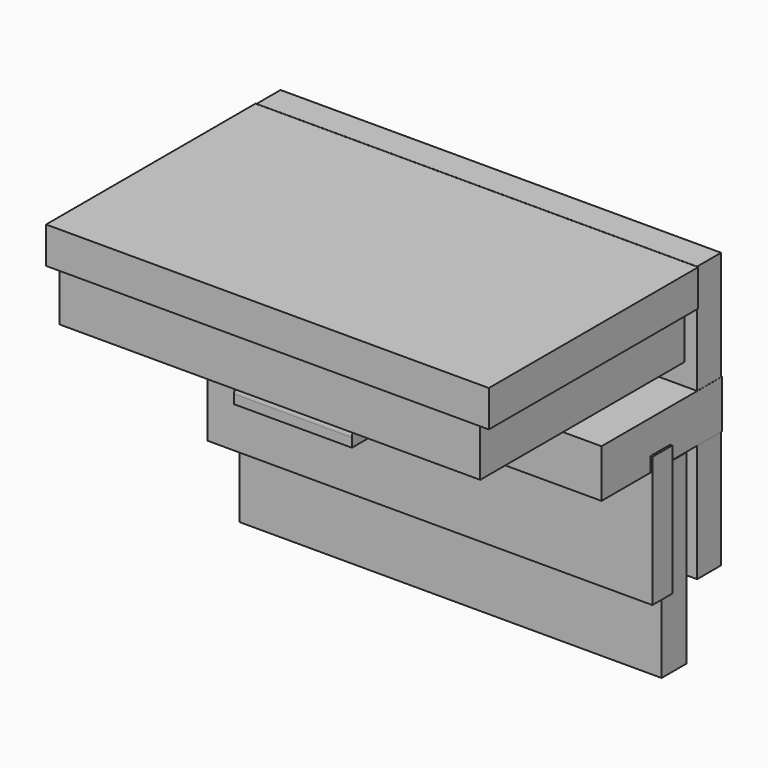
from build123d import *

# Parameters (mm, degrees)
F0_W      = 119.6627616882
F0_H      = 74.7766420245
F1_DEPTH  = 8.128
F3_W      = 119.7266131639
F3_H      = 13.0689910729
F4_DEPTH  = 40.894
F5_W      = 6.7429840565
F5_H      = 35.425810609
F6_DEPTH  = 60.452
F8_START  = 27.432
F7_W      = 120.2666014433
F7_H      = 71.1032301188
F8_DEPTH  = 9.906
F10_START = 0.508
F9_W      = 114.7100962698
F9_H      = 50.5220373161
F10_DEPTH = 8.382
F12_START = 0.508
F11_W     = 114.3076792359
F11_H     = 13.2031459361
F12_DEPTH = 69.342
F14_DEPTH = 16.002


with BuildPart() as f1:
    # F0 (on Front) → F1 (new body)
    with BuildSketch(Plane.XZ):
        Rectangle(F0_W, F0_H)
    extrude(amount=-F1_DEPTH)

    # F3 (on offset) → F4 (join)
    with BuildSketch(Plane.XZ.offset(-8.382)):
        with Locations((0, 1.1006427521)):
            Rectangle(F3_W, F3_H)
    extrude(amount=F4_DEPTH)

    # F5 (on Right) → F6 (join, symmetric)
    with BuildSketch(Plane.YZ):
        with Locations((-12.5801898539, -19.1722072195)):
            Rectangle(F5_W, F5_H)
    extrude(amount=F6_DEPTH, both=True)

    # F7 (on Top) → F8 (join)
    with BuildSketch(Plane.XY.offset(F8_START)):
        with Locations((0, -35.5516150594)):
            Rectangle(F7_W, F7_H)
        with Locations((0, -35.5516150594)):
            Rectangle(F7_W, F7_H)
    extrude(amount=F8_DEPTH)

    # F13 (on Right) → F14 (join, symmetric)
    with BuildSketch(Plane.YZ):
        Polygon((-62.4162591994, 5.1726119709), (-32.512, 5.1726119709), (-32.512, 7.6351382885), (-56.5703772008, 7.6351382885), (-62.4162591994, 7.6351382885), align=None)
        with BuildLine():
            Line((-62.4162591994, 7.6351382885), (-56.5703772008, 7.6351382885))
            ThreePointArc((-56.5703772008, 7.6351382885), (-59.4933182001, 10.5580792878), (-62.4162591994, 7.6351382885))
        make_face()
    extrude(amount=F14_DEPTH, both=True)


with BuildPart() as f10:
    # F9 (on Front) → F10 (new body)
    with BuildSketch(Plane.XZ.offset(F10_START)):
        with Locations((-0.0609327108, -32.9600942787)):
            Rectangle(F9_W, F9_H)
    extrude(amount=F10_DEPTH)


with BuildPart() as f12:
    # F11 (on Front) → F12 (new body)
    with BuildSketch(Plane.XZ.offset(F12_START)):
        with Locations((-0.3627836704, 20.3791270033)):
            Rectangle(F11_W, F11_H)
    extrude(amount=F12_DEPTH)


solid = Compound([f1.part, f10.part, f12.part])
